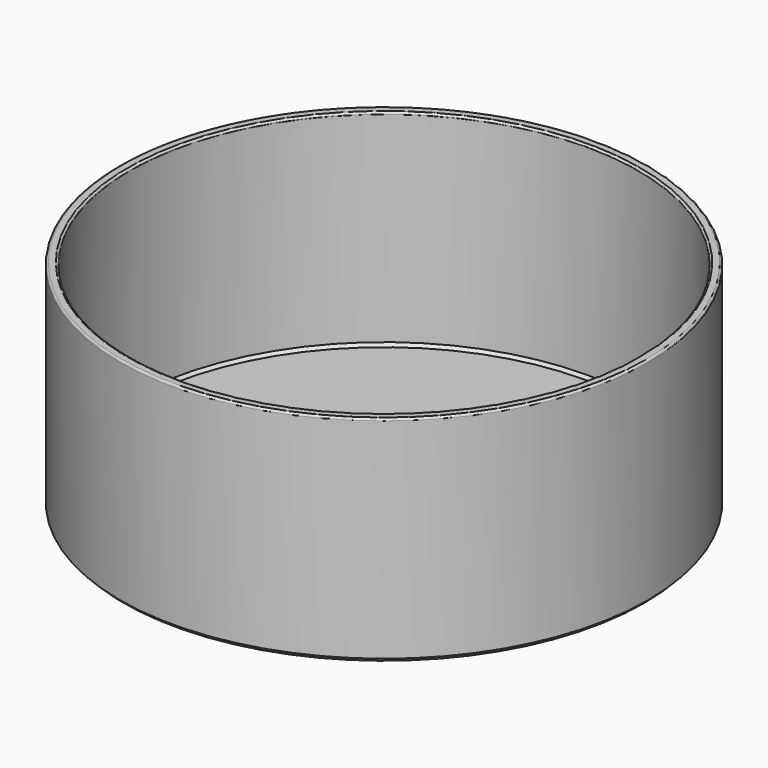
from build123d import *

# Parameters (mm, degrees)
F0_R     = 67.5
F1_DEPTH = 55
F2_T     = -2.5
F3_R     = 0.5
F4_SIZE  = 1
F5_SIZE  = 0.75


with BuildPart() as f1:
    # F0 (on Top) → F1 (new body)
    with BuildSketch(Plane.XY):
        Circle(F0_R)
    extrude(amount=F1_DEPTH)

    # F2
    f2_openings = [f1.faces().sort_by_distance(p)[0] for p in [
        (0, 0, 55),
    ]]
    offset(amount=F2_T, openings=f2_openings)

    # F3
    f3_edges = [f1.edges().sort_by_distance(p)[0] for p in [
        (-67.5, 0, 55),
        (-65, 0, 55),
    ]]
    fillet(f3_edges, radius=F3_R)

    # F4
    f4_edges = [f1.edges().sort_by_distance(p)[0] for p in [
        (-67.5, 0, 0),
    ]]
    chamfer(f4_edges, length=F4_SIZE)

    # F5
    f5_edges = [f1.edges().sort_by_distance(p)[0] for p in [
        (-65, 0, 2.5),
    ]]
    chamfer(f5_edges, length=F5_SIZE)


solid = f1.part
